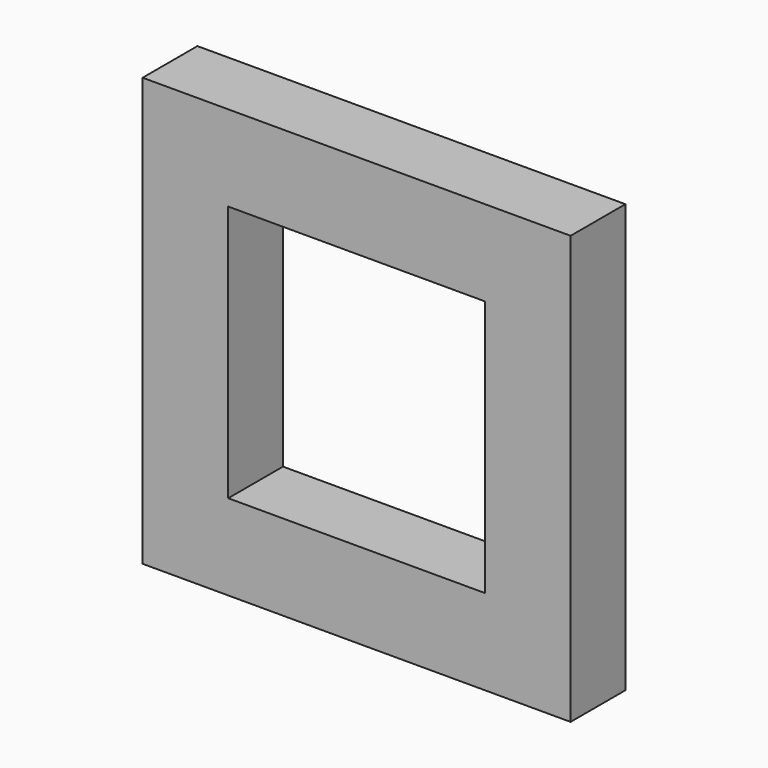
from build123d import *

# Parameters (mm, degrees)
SKETCH_W   = 1250
SKETCH_H   = 1250
SKETCH_W_2 = 750
SKETCH_H_2 = 750
PAD_DEPTH  = 200


with BuildPart() as part:
    # Sketch → Pad (new body)
    with BuildSketch(Plane.XZ):
        Rectangle(SKETCH_W, SKETCH_H)
        Rectangle(SKETCH_W_2, SKETCH_H_2, mode=Mode.SUBTRACT)
    extrude(amount=PAD_DEPTH)


solid = part.part
